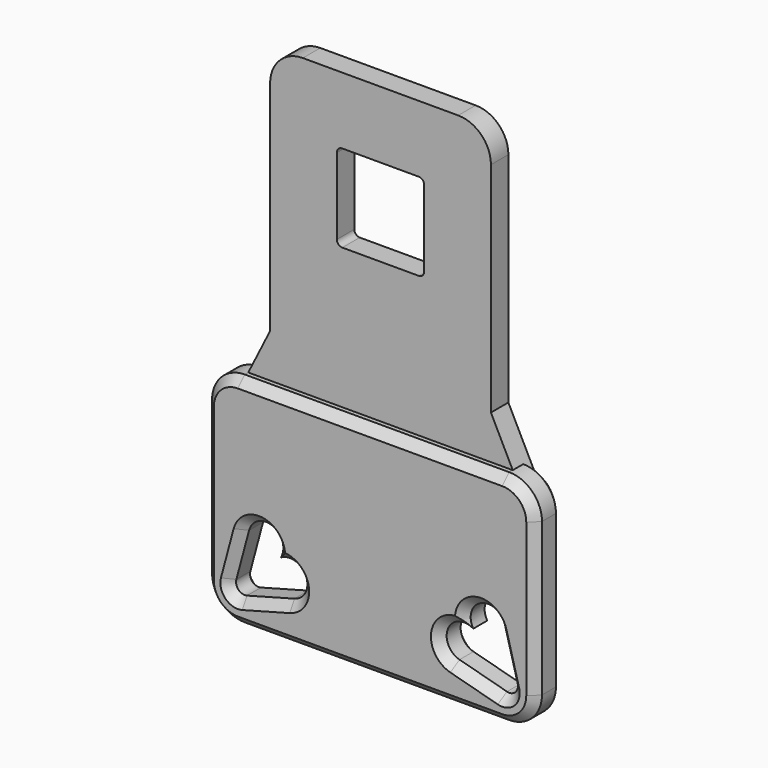
from build123d import *

# Parameters (mm, degrees)
PAD013_DEPTH    = 2
PAD014_DEPTH    = 1.2
POCKET011_DEPTH = 3.201
CHAMFER010_SIZE = 0.8


with BuildPart() as part:
    # Sketch034 → Pad013 (new body)
    with BuildSketch(Plane.XZ):
        with BuildLine():
            ThreePointArc((-7.12, 25), (-9.24132, 24.12132), (-10.12, 22))
            Line((-10.12, 22), (-10.12, 2))
            Line((-10.12, 2), (-12.12, -2))
            ThreePointArc((-12.12, -2), (-14.24132, -2.87868), (-15.12, -5))
            Line((-15.12, -5), (-15.12, -19))
            ThreePointArc((-15.12, -19), (-14.24132, -21.12132), (-12.12, -22))
            Line((-12.12, -22), (12.12, -22))
            ThreePointArc((12.12, -22), (14.24132, -21.12132), (15.12, -19))
            Line((15.12, -19), (15.12, -5))
            ThreePointArc((15.12, -5), (14.24132, -2.87868), (12.12, -2))
            Line((10.12, 2), (12.12, -2))
            Line((10.12, 22), (10.12, 2))
            ThreePointArc((10.12, 22), (9.24132, 24.12132), (7.12, 25))
            Line((-7.12, 25), (7.12, 25))
        make_face()
        with BuildLine():
            Line((-3.5, 18.88), (3.5, 18.88))
            ThreePointArc((4, 18.38), (3.853553, 18.733553), (3.5, 18.88))
            Line((4, 18.38), (4, 11.38))
            ThreePointArc((3.5, 10.88), (3.853553, 11.026447), (4, 11.38))
            Line((3.5, 10.88), (-3.5, 10.88))
            ThreePointArc((-4, 11.38), (-3.853553, 11.026447), (-3.5, 10.88))
            Line((-4, 11.38), (-4, 18.38))
            ThreePointArc((-3.5, 18.88), (-3.853553, 18.733553), (-4, 18.38))
        make_face(mode=Mode.SUBTRACT)
    extrude(amount=PAD013_DEPTH)

    # Sketch035 → Pad014 (join)
    with BuildSketch(Plane.XZ.offset(2)):
        with BuildLine():
            ThreePointArc((15.12, -5), (14.24132, -2.87868), (12.12, -2))
            Line((-12.12, -2), (12.12, -2))
            ThreePointArc((-12.12, -2), (-14.24132, -2.87868), (-15.12, -5))
            Line((-15.12, -19), (-15.12, -5))
            ThreePointArc((-15.12, -19), (-14.24132, -21.12132), (-12.12, -22))
            Line((12.12, -22), (-12.12, -22))
            ThreePointArc((12.12, -22), (14.24132, -21.12132), (15.12, -19))
            Line((15.12, -5), (15.12, -19))
        make_face()
    extrude(amount=PAD014_DEPTH)

    # Sketch062 → Pocket011 (cut, through all)
    with BuildSketch(Plane.XZ):
        with BuildLine():
            ThreePointArc((-12.892741, -18.792945), (-12.685685, -19.565685), (-11.912945, -19.772741))
            Line((-11.912945, -19.772741), (-7.566279, -18.608055))
            ThreePointArc((-7.566279, -18.608055), (-6.511508, -16.428232), (-8.82149, -15.70149))
            ThreePointArc((-8.82149, -15.70149), (-9.548232, -13.391508), (-11.728055, -14.446279))
            Line((-12.892741, -18.792945), (-11.728055, -14.446279))
        make_face()
        with BuildLine():
            ThreePointArc((11.912945, -19.772741), (12.685685, -19.565685), (12.892741, -18.792945))
            Line((12.892741, -18.792945), (11.728055, -14.446279))
            ThreePointArc((11.728055, -14.446279), (9.548232, -13.391508), (8.82149, -15.70149))
            ThreePointArc((8.82149, -15.70149), (6.511508, -16.428232), (7.566279, -18.608055))
            Line((11.912945, -19.772741), (7.566279, -18.608055))
        make_face()
    extrude(amount=POCKET011_DEPTH, mode=Mode.SUBTRACT)

    # Chamfer010
    chamfer010_edges = [part.edges().sort_by_distance(p)[0] for p in [
        (-12.685685, 0, -19.565685),
        (-11.912945, -1.6, -19.772741),
        (-12.685685, -3.2, -19.565685),
        (-12.892741, -1.6, -18.792945),
        (9.739612, 0, -19.190398),
        (7.566279, -1.6, -18.608055),
        (9.739612, -3.2, -19.190398),
        (11.912945, -1.6, -19.772741),
        (0, 0, -22),
        (-14.24132, -3.2, -21.12132),
    ]]
    chamfer(chamfer010_edges, length=CHAMFER010_SIZE)


solid = part.part
